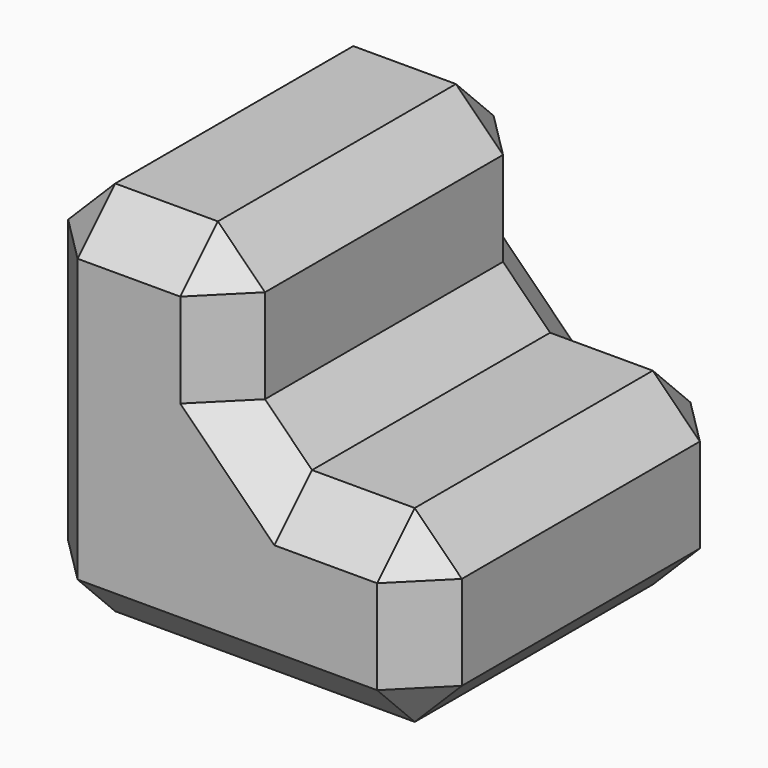
from build123d import *

# Parameters (mm, degrees)
F0_W     = 83.6216490716
F0_H     = 83.1985995173
F1_DEPTH = 40
F2_W     = 41.8108245358
F2_H     = 83.1985995173
F3_DEPTH = 40
F4_SIZE  = 10


with BuildPart() as f1:
    # F0 (on Top) → F1 (new body)
    with BuildSketch(Plane.XY):
        with Locations((-17.3164242879, -4.335001111)):
            Rectangle(F0_W, F0_H)
    extrude(amount=F1_DEPTH)

    # F2 (on face) → F3 (join)
    with BuildSketch(Plane.XY.offset(40)):
        with Locations((-38.2218365557, -4.335001111)):
            Rectangle(F2_W, F2_H)
    extrude(amount=F3_DEPTH)

    # F4
    f4_edges = [f1.edges().sort_by_distance(p)[0] for p in [
        (-17.316424, -4.335001, 80),
        (-38.221837, -45.934301, 80),
        (-59.127249, -4.335001, 80),
        (-38.221837, 37.264299, 80),
        (-17.316424, -45.934301, 60),
        (-17.316424, -4.335001, 40),
        (-17.316424, 37.264299, 60),
        (3.588988, 37.264299, 40),
        (3.588988, -45.934301, 40),
        (24.4944, -4.335001, 40),
        (24.4944, -45.934301, 20),
        (24.4944, 37.264299, 20),
        (24.4944, -4.335001, 0),
        (-17.316424, -45.934301, 0),
        (-59.127249, -45.934301, 40),
        (-59.127249, -4.335001, 0),
        (-17.316424, 37.264299, 0),
        (-59.127249, 37.264299, 40),
    ]]
    chamfer(f4_edges, length=F4_SIZE)


solid = f1.part
